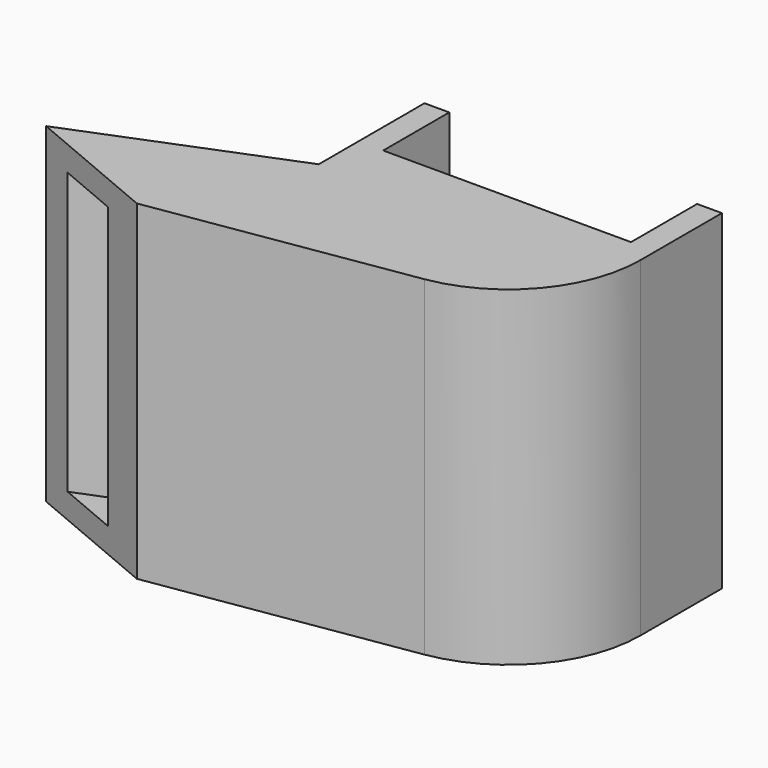
from build123d import *

# Parameters (mm, degrees)
PAD_DEPTH    = 20
FILLET_R     = 8
THICKNESS_T  = -1.5
SKETCH001_W  = 1.5
SKETCH001_H  = 20
PAD001_DEPTH = 5


with BuildPart() as part:
    # Sketch → Pad (new body)
    with BuildSketch(Plane.XY):
        Polygon((0, 0), (18, 0), (18, -8), (-4.208438, -11.5), (-12.5, -8), (0, -3), align=None)
    extrude(amount=PAD_DEPTH)

    # Fillet
    fillet_edges = [part.edges().sort_by_distance(p)[0] for p in [
        (18, -8, 10),
    ]]
    fillet(fillet_edges, radius=FILLET_R)

    # Thickness
    thickness_openings = [part.faces().sort_by_distance(p)[0] for p in [
        (9, 0, 10),
        (-8.354219, -9.75, 10),
    ]]
    offset(amount=THICKNESS_T, openings=thickness_openings)

    # Sketch001 → Pad001 (new body)
    with BuildSketch(Plane(origin=(0, 0, 0), x_dir=(-1, 0, 0), z_dir=(0, 1, 0))):
        with Locations((-17.25, 10)):
            Rectangle(SKETCH001_W, SKETCH001_H)
        with Locations((-0.75, 10)):
            Rectangle(SKETCH001_W, SKETCH001_H)
    extrude(amount=PAD001_DEPTH)


solid = part.part
